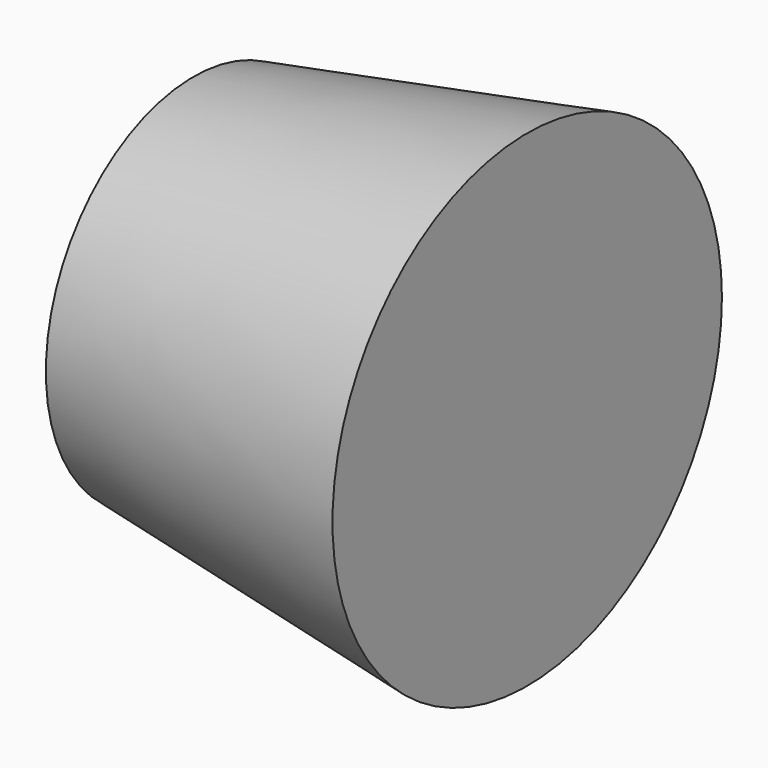
from build123d import *

# Parameters (mm, degrees)
F0_R     = 67.0042234828
F1_DEPTH = 121.158
F1_TAPER = -10


with BuildPart() as f1:
    # F0 (on Right) → F1 (new body)
    with BuildSketch(Plane.YZ):
        with Locations((-99.2708598759, 13.2897393532)):
            Circle(F0_R)
    extrude(amount=F1_DEPTH, taper=F1_TAPER)


solid = f1.part
